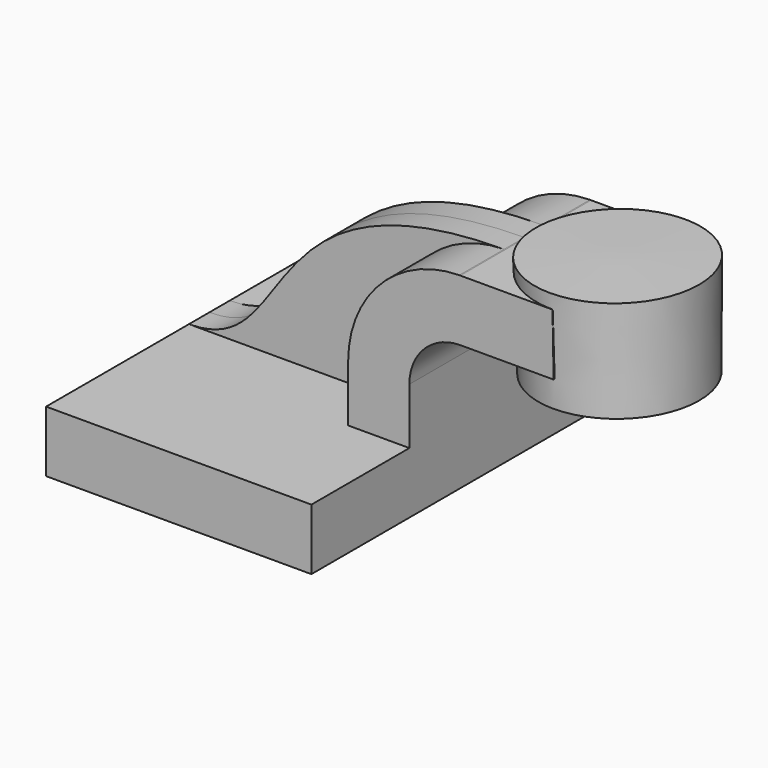
from build123d import *

# Parameters (mm, degrees)
F1_DEPTH = 63.5
F2_DEPTH = 25.4
F3_DEPTH = 7.9375


with BuildPart() as f1:
    # F0 (on Front) → F1 (new body, symmetric)
    with BuildSketch(Plane.XZ):
        Polygon((44.9793039322, 9.525), (-18.5206960678, 9.525), (-18.5206960678, -9.525), (64.0293039322, -9.525), (64.0293039322, 9.525), align=None)
    extrude(amount=F1_DEPTH, both=True)

    # F0 (on Front) → F2 (join, symmetric)
    with BuildSketch(Plane.XZ):
        with BuildLine():
            Line((44.9793039322, 27.0002), (44.9793039322, 9.525))
            Line((44.9793039322, 9.525), (64.0293039322, 9.525))
            Line((64.0293039322, 9.525), (64.0293039322, 27.0002))
            ThreePointArc((64.0293039322, 27.0002), (68.6789837809, 38.2255201513), (79.9043039322, 42.8752))
            Line((79.9043039322, 42.8752), (83.0793039322, 42.8752))
            Line((83.0793039322, 42.8752), (83.0793039322, 61.9252))
            Line((83.0793039322, 61.9252), (79.9043039322, 61.9252))
            add(Edge.make_bspline(
                [(79.5426989751, 61.9233279649), (79.6630155752, 61.9240698804), (79.7835503929, 61.9246940115), (79.9043039322, 61.9252)],
                knots=[111.336027501, 111.336027501, 111.336027501, 111.336027501, 111.5045361635, 111.5045361635, 111.5045361635, 111.5045361635], degree=3))
            ThreePointArc((79.5426989751, 61.9233279649), (55.0810821618, 51.5677250267), (44.9793039322, 27.0002))
        make_face()
        Polygon((108.5640043465, 61.9252), (83.0793039322, 61.9252), (83.0793039322, 42.8752), (108.9037118903, 42.8752), align=None)
    extrude(amount=F2_DEPTH, both=True)

    # F0 (on Front) → F3 (join, symmetric)
    with BuildSketch(Plane.XZ):
        with BuildLine():
            add(Edge.make_bspline(
                [(-18.5206960678, 9.525), (15.8143353949, 9.525), (0.0478403981, 61.4331340424), (79.5426989751, 61.9233279649)],
                knots=[0, 0, 0, 0, 111.336027501, 111.336027501, 111.336027501, 111.336027501], degree=3))
            Line((-18.5206960678, 9.525), (44.9793039322, 9.525))
            Line((44.9793039322, 9.525), (44.9793039322, 27.0002))
            ThreePointArc((44.9793039322, 27.0002), (55.0810821618, 51.5677250267), (79.5426989751, 61.9233279649))
        make_face()
    extrude(amount=F3_DEPTH, both=True)

    # F0 (on Front) → F4 (revolve)
    with BuildSketch(Plane.XZ):
        Polygon((108.4793039322, 66.675), (108.5640043465, 61.9252), (108.9037118903, 42.8752), (109.0454831719, 34.925), (133.8793039322, 34.925), (133.8793039322, 66.675), align=None)
    revolve(axis=Axis((108.7623935521, 0, 50.8), (0.0178295824, 0, -0.9998410404)))


solid = f1.part
